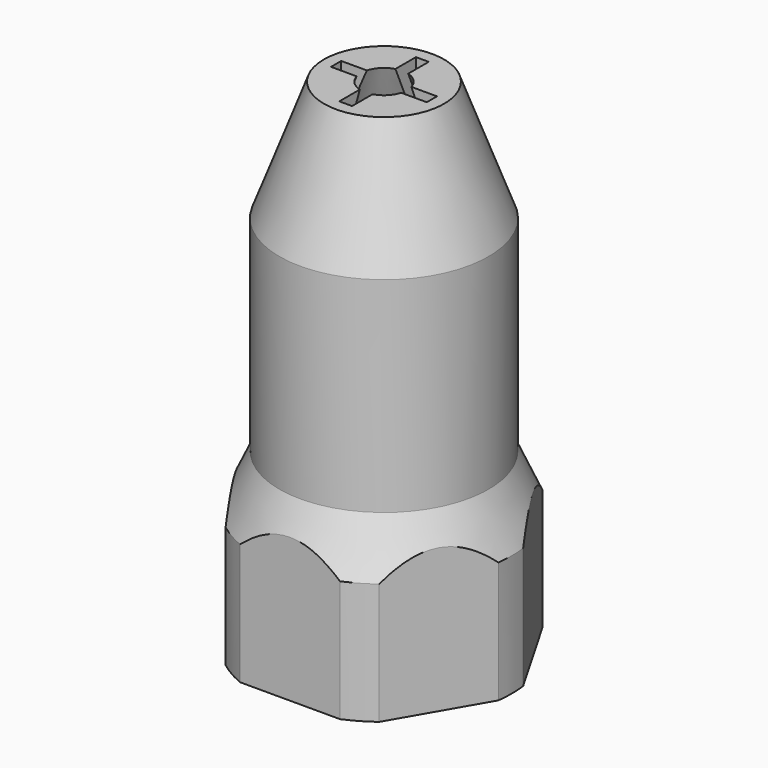
from build123d import *

# Parameters (mm, degrees)
SKETCH001_R         = 14.291544
POCKET_DEPTH        = 31.151
REVOLUTION001_ANGLE = 30
REVOLUTION002_ANGLE = 30
REVOLUTION003_ANGLE = 30
REVOLUTION004_ANGLE = 30
SKETCH006_W         = 0.8
SKETCH006_H         = 2.14163
POCKET001_DEPTH     = 107.126588
POLARPATTERN_COUNT  = 4


with BuildPart() as part:
    # Sketch → Revolution (revolve)
    with BuildSketch(Plane.XZ):
        with BuildLine():
            Line((-5.3, 0), (-5.3, 6))
            ThreePointArc((-5.3, 6), (-4.244457, 6.413224), (-3.75, 7.433241))
            Line((-3.775, 18.6), (-3.75, 7.433241))
            Line((-3.775, 20.95), (-3.775, 18.6))
            Line((-3.075, 20.95), (-3.775, 20.95))
            Line((-3.075, 21.55), (-3.075, 20.95))
            Line((-2.7, 21.55), (-3.075, 21.55))
            Line((-2.7, 21.55), (-2.55, 28.55))
            Line((-2.55, 28.55), (-1.45, 31.15))
            Line((-1.45, 31.15), (-3.764164, 31.15))
            Line((-3.764164, 31.15), (-6.55502, 23.635956))
            Line((-6.55502, 23.635956), (-6.55502, 10.794422))
            Line((-6.55502, 10.794422), (-8, 7.60349))
            Line((-8, 7.60349), (-8, 0))
            Line((-5.3, 0), (-8, 0))
        make_face()
    revolve(axis=Axis((0, 0, 0), (0, 0, 1)))

    # Sketch001 (on Face8 of Revolution) → Pocket (cut, through all)
    with BuildSketch(Plane(origin=(0, 0, 0), x_dir=(1, 0, 0), z_dir=(0, 0, -1))):
        Circle(SKETCH001_R)
        Polygon((8.5, 0), (4.25, 7.361216), (-4.25, 7.361216), (-8.5, 0), (-4.25, -7.361216), (4.25, -7.361216), align=None, mode=Mode.SUBTRACT)
    extrude(amount=-POCKET_DEPTH, mode=Mode.SUBTRACT)

    # Sketch002 → Revolution001 (revolve, symmetric)
    with BuildSketch(Plane.XZ) as revolution001_sk:
        Polygon((-5.5, 0), (-4.5, 0.6), (-5.5, 1.2), (-6.5, 1.2), (-6.5, 0), align=None)
        Polygon((-5.5, 1.5), (-4.5, 2.1), (-5.5, 2.7), (-6.5, 2.7), (-6.5, 1.5), align=None)
        Polygon((-5.5, 3), (-4.5, 3.6), (-5.5, 4.2), (-6.5, 4.2), (-6.5, 3), align=None)
    revolve(axis=Axis((0, 0, 0), (0, 0, 1)), revolution_arc=REVOLUTION001_ANGLE / 2)
    revolve(revolution001_sk.sketch, axis=Axis((0, 0, 0), (0, 0, -1)), revolution_arc=REVOLUTION001_ANGLE / 2)

    # Sketch003 → Revolution002 (revolve, symmetric)
    with BuildSketch(Plane(origin=(0, 0, 0.375), x_dir=(0, 1, 0), z_dir=(1, 0, 0))) as revolution002_sk:
        Polygon((-5.5, 0), (-4.5, 0.6), (-5.5, 1.2), (-6.5, 1.2), (-6.5, 0), align=None)
        Polygon((-5.5, 1.5), (-4.5, 2.1), (-5.5, 2.7), (-6.5, 2.7), (-6.5, 1.5), align=None)
        Polygon((-5.5, 3), (-4.5, 3.6), (-5.5, 4.2), (-6.5, 4.2), (-6.5, 3), align=None)
    revolve(axis=Axis((0, 0, 0.375), (0, 0, 1)), revolution_arc=REVOLUTION002_ANGLE / 2)
    revolve(revolution002_sk.sketch, axis=Axis((0, 0, 0.375), (0, 0, -1)), revolution_arc=REVOLUTION002_ANGLE / 2)

    # Sketch004 → Revolution003 (revolve, symmetric)
    with BuildSketch(Plane(origin=(0, 0, 0.75), x_dir=(-1, 0, 0), z_dir=(0, 1, 0))) as revolution003_sk:
        Polygon((-5.5, 0), (-4.5, 0.6), (-5.5, 1.2), (-6.5, 1.2), (-6.5, 0), align=None)
        Polygon((-5.5, 1.5), (-4.5, 2.1), (-5.5, 2.7), (-6.5, 2.7), (-6.5, 1.5), align=None)
        Polygon((-5.5, 3), (-4.5, 3.6), (-5.5, 4.2), (-6.5, 4.2), (-6.5, 3), align=None)
    revolve(axis=Axis((0, 0, 0.75), (0, 0, 1)), revolution_arc=REVOLUTION003_ANGLE / 2)
    revolve(revolution003_sk.sketch, axis=Axis((0, 0, 0.75), (0, 0, -1)), revolution_arc=REVOLUTION003_ANGLE / 2)

    # Sketch005 → Revolution004 (revolve, symmetric)
    with BuildSketch(Plane(origin=(0, 0, 1.125), x_dir=(0, -1, 0), z_dir=(-1, 0, 0))) as revolution004_sk:
        Polygon((-5.5, 0), (-4.5, 0.6), (-5.5, 1.2), (-6.5, 1.2), (-6.5, 0), align=None)
        Polygon((-5.5, 1.5), (-4.5, 2.1), (-5.5, 2.7), (-6.5, 2.7), (-6.5, 1.5), align=None)
        Polygon((-5.5, 3), (-4.5, 3.6), (-5.5, 4.2), (-6.5, 4.2), (-6.5, 3), align=None)
    revolve(axis=Axis((0, 0, 1.125), (0, 0, 1)), revolution_arc=REVOLUTION004_ANGLE / 2)
    revolve(revolution004_sk.sketch, axis=Axis((0, 0, 1.125), (0, 0, -1)), revolution_arc=REVOLUTION004_ANGLE / 2)

    # Sketch006 (on Face5 of Revolution004) → Pocket001 (cut, through all)
    with BuildSketch(Plane(origin=(0, 0, 31.15), x_dir=(-1, 0, 0), z_dir=(0, 0, 1))):
        with Locations((0, 1.929185)):
            Rectangle(SKETCH006_W, SKETCH006_H)
    pocket001 = extrude(amount=-POCKET001_DEPTH, mode=Mode.SUBTRACT)

    # PolarPattern: Pocket001 ×4 about axis
    polarpattern_axis = Axis((0, 0, 31.15), (0, 0, 1))
    for i in range(1, POLARPATTERN_COUNT):
        add(pocket001.rotate(polarpattern_axis, i * 360 / POLARPATTERN_COUNT), mode=Mode.SUBTRACT)


solid = part.part
